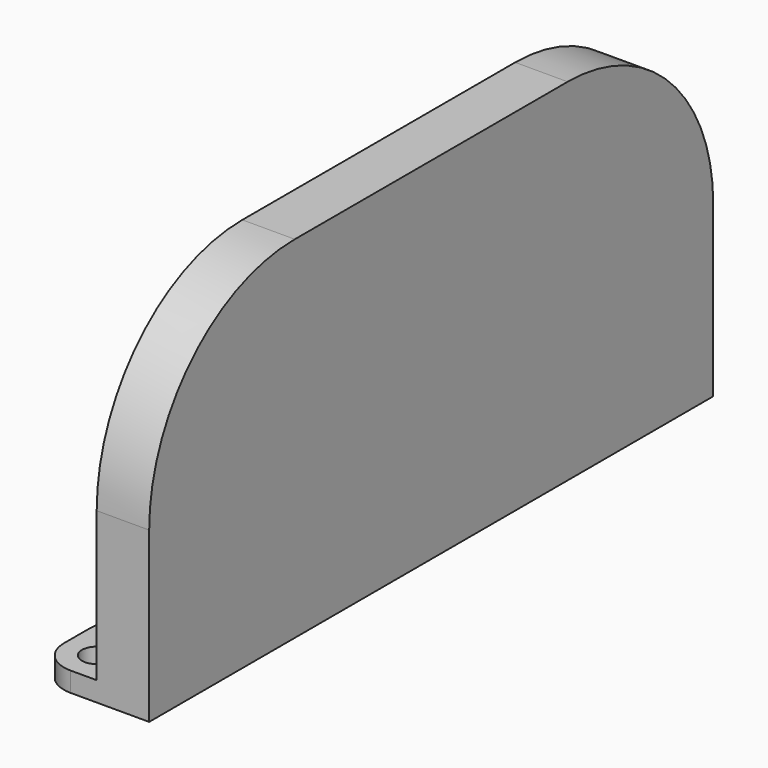
from build123d import *

# Parameters (mm, degrees)
F1_DEPTH = 2
F3_DEPTH = 6
F4_W     = 15
F4_H     = 3
F5_DEPTH = 15
F7_DEPTH = 1
F8_R     = 2.25
F9_DEPTH = 3.001
F10_R    = 5


with BuildPart() as f1:
    # F0 (on Right) → F1 (new body)
    with BuildSketch(Plane.YZ):
        with BuildLine():
            Line((-53.75, 25.75), (-53.75, 0))
            Line((-53.75, 0), (53.75, 0))
            Line((53.75, 0), (53.75, 25.75))
            ThreePointArc((53.75, 25.75), (45.622213, 45.372213), (26, 53.5))
            Line((26, 53.5), (-26, 53.5))
            ThreePointArc((-26, 53.5), (-45.622213, 45.372213), (-53.75, 25.75))
        make_face()
    extrude(amount=F1_DEPTH)

    # F2 (on face) → F3 (join)
    with BuildSketch(Plane(origin=(0, 0, 0), x_dir=(0, -1, 0), z_dir=(-1, 0, 0))):
        with BuildLine():
            ThreePointArc((26, 51.5), (44.208, 43.958), (51.75, 25.75))
            Line((51.75, 25.75), (51.75, 0))
            Line((51.75, 0), (53.75, 0))
            Line((53.75, 0), (53.75, 25.75))
            ThreePointArc((53.75, 25.75), (45.622213, 45.372213), (26, 53.5))
            Line((26, 53.5), (-26, 53.5))
            ThreePointArc((-26, 53.5), (-45.622213, 45.372213), (-53.75, 25.75))
            Line((-53.75, 25.75), (-53.75, 0))
            Line((-53.75, 0), (-51.75, 0))
            Line((-51.75, 0), (-51.75, 25.75))
            ThreePointArc((-51.75, 25.75), (-44.208, 43.958), (-26, 51.5))
            Line((-26, 51.5), (26, 51.5))
        make_face()
    extrude(amount=F3_DEPTH)

    # F4 (on face) → F5 (join)
    with BuildSketch(Plane(origin=(0, 0, 0), x_dir=(0, -1, 0), z_dir=(-1, 0, 0))):
        with Locations((0, 1.5)):
            Rectangle(F4_W, F4_H)
        with Locations((-46.25, 1.5)):
            Rectangle(F4_W, F4_H)
        with Locations((46.25, 1.5)):
            Rectangle(F4_W, F4_H)
    extrude(amount=F5_DEPTH)

    # F6 (on Front) → F7 (join, symmetric)
    with BuildSketch(Plane.XZ):
        Polygon((0, 18), (-6, 3), (0, 3), align=None)
    extrude(amount=F7_DEPTH, both=True)

    # F8 (on face) → F9 (cut, through all)
    with BuildSketch(Plane.XY.offset(3)):
        with Locations((-10, 48.75)):
            Circle(F8_R)
        with Locations((-10, 0)):
            Circle(F8_R)
        with Locations((-10, -48.75)):
            Circle(F8_R)
    extrude(amount=-F9_DEPTH, mode=Mode.SUBTRACT)

    # F10
    f10_edges = [f1.edges().sort_by_distance(p)[0] for p in [
        (-15, -53.75, 1.5),
        (-15, 53.75, 1.5),
        (-15, 38.75, 1.5),
        (-15, 7.5, 1.5),
        (-15, -7.5, 1.5),
        (-15, -38.75, 1.5),
    ]]
    fillet(f10_edges, radius=F10_R)


solid = f1.part
